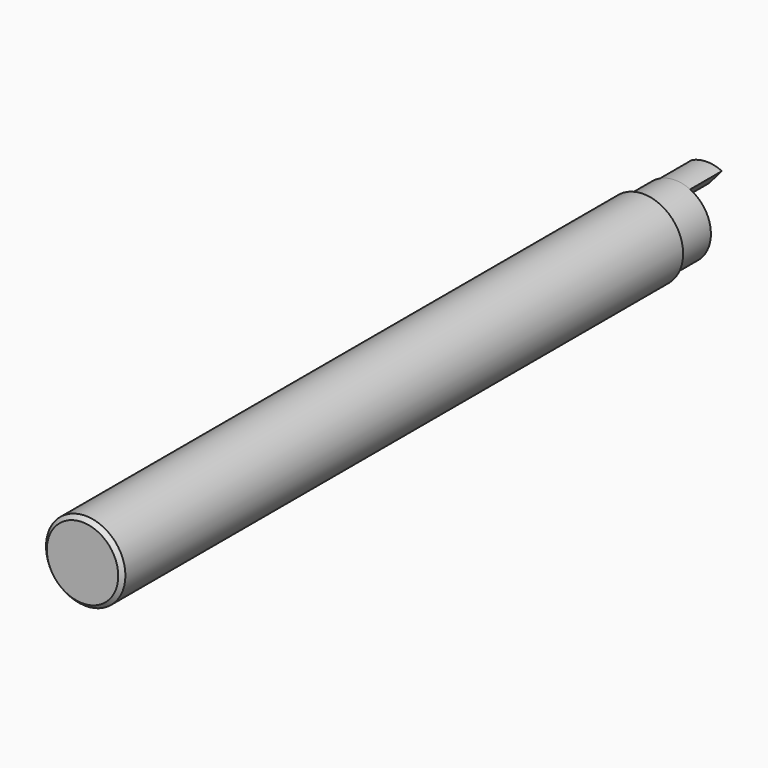
from build123d import *

# Parameters (mm, degrees)
F0_R     = 10
F1_DEPTH = 88.3
F2_R     = 9
F3_DEPTH = 10
F5_DEPTH = 10
F6_SIZE  = 1


with BuildPart() as f1:
    # F0 (on Front) → F1 (new body, symmetric)
    with BuildSketch(Plane.XZ):
        Circle(F0_R)
    extrude(amount=F1_DEPTH, both=True)

    # F2 (on face) → F3 (join)
    with BuildSketch(Plane(origin=(0, 88.3, 0), x_dir=(-1, 0, 0), z_dir=(0, 1, 0))):
        Circle(F2_R)
    extrude(amount=F3_DEPTH)

    # F4 (on face) → F5 (join)
    with BuildSketch(Plane(origin=(0, 98.3, 0), x_dir=(-1, 0, 0), z_dir=(0, 1, 0))):
        with BuildLine():
            ThreePointArc((3.775918, 8.169605), (0, 9), (-3.775918, 8.169605))
            Line((-3.775918, 8.169605), (-0.5, 4.392257))
            Line((-0.5, 4.392257), (0.5, 4.392257))
            Line((0.5, 4.392257), (3.775918, 8.169605))
        make_face()
    extrude(amount=F5_DEPTH)

    # F6
    f6_edges = [f1.edges().sort_by_distance(p)[0] for p in [
        (-10, -88.3, 0),
    ]]
    chamfer(f6_edges, length=F6_SIZE)


solid = f1.part
